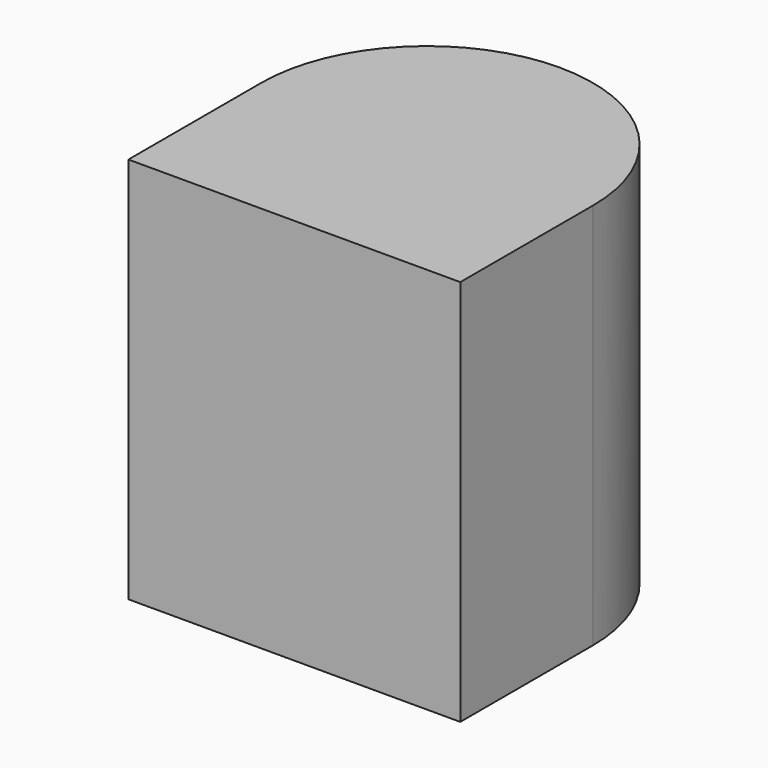
from build123d import *

# Parameters (mm, degrees)
F0_W     = 60
F0_H     = 60
F1_DEPTH = 70
F3_DEPTH = 70.001
F5_DEPTH = 30.001


with BuildPart() as f1:
    # F0 (on Top) → F1 (new body)
    with BuildSketch(Plane.XY):
        Rectangle(F0_W, F0_H)
    extrude(amount=F1_DEPTH)

    # F2 (on face) → F3 (cut, through all)
    with BuildSketch(Plane.XY.offset(70)):
        with BuildLine():
            ThreePointArc((0, 30), (21.213203, 21.213203), (30, 0))
            Line((30, 0), (30, 30))
            Line((30, 30), (0, 30))
        make_face()
        with BuildLine():
            ThreePointArc((-30, 0), (-21.213203, 21.213203), (0, 30))
            Line((0, 30), (-30, 30))
            Line((-30, 30), (-30, 0))
        make_face()
    extrude(amount=-F3_DEPTH, mode=Mode.SUBTRACT)

    # F4 (on Right) → F5 (cut, through all)
    with BuildSketch(Plane.YZ):
        Polygon((30, 0), (29.520035, 69.998355), (0, 0), align=None)
    extrude(amount=-F5_DEPTH, mode=Mode.SUBTRACT)


solid = f1.part
